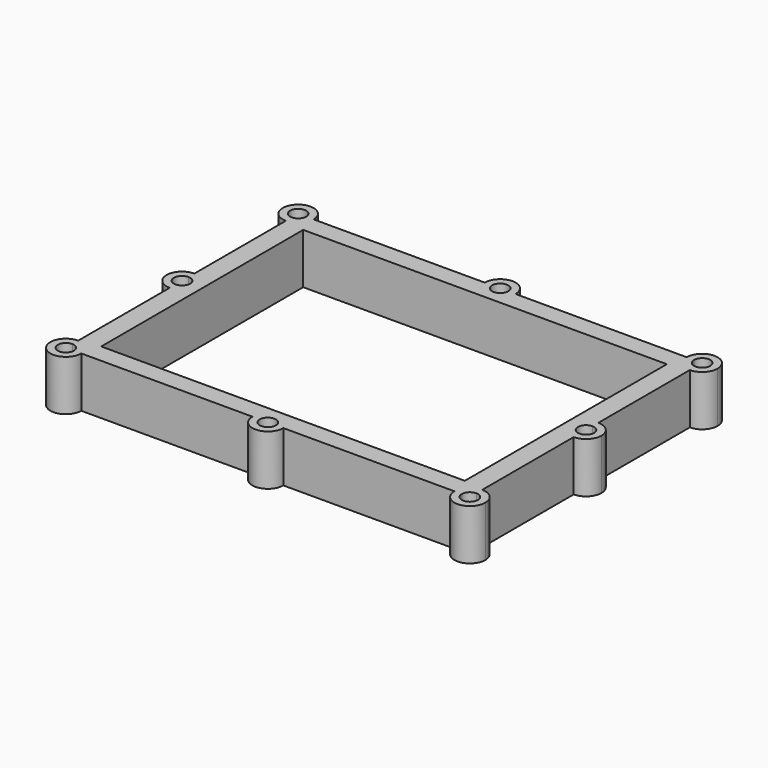
from build123d import *

# Parameters (mm, degrees)
F0_W     = 182.88
F0_H     = 127
F1_DEPTH = 25.4


with BuildPart() as f1:
    # F0 (on Top) → F1 (new body)
    with BuildSketch(Plane.XY):
        with BuildLine():
            ThreePointArc((-101.6, 68.961), (-104.4736819587, 75.8986819587), (-97.536, 73.025))
            Line((-97.536, 73.025), (-93.8328908066, 73.025))
            ThreePointArc((-93.8328908066, 73.025), (-107.0921755809, 78.5171755809), (-101.6, 65.2578908066))
            Line((-101.6, 65.2578908066), (-101.6, 68.961))
        make_face()
        with BuildLine():
            Line((-93.8328908066, 73.025), (-97.536, 73.025))
            ThreePointArc((-97.536, 73.025), (-98.7263180413, 70.1513180413), (-101.6, 68.961))
            Line((-101.6, 68.961), (-101.6, 65.2578908066))
            ThreePointArc((-101.6, 65.2578908066), (-96.1078244191, 67.5328244191), (-93.8328908066, 73.025))
        make_face()
        with BuildLine():
            Line((-7.7671091934, 73.025), (-93.8328908066, 73.025))
            ThreePointArc((-93.8328908066, 73.025), (-96.1078244191, 67.5328244191), (-101.6, 65.2578908066))
            Line((-101.6, 65.2578908066), (-101.6, 7.7671091934))
            ThreePointArc((-101.6, 7.7671091934), (-96.1078244191, 5.4921755809), (-93.8328908066, 0))
            ThreePointArc((-93.8328908066, 0), (-96.1078244191, -5.4921755809), (-101.6, -7.7671091934))
            Line((-101.6, -7.7671091934), (-101.6, -65.2578908066))
            ThreePointArc((-101.6, -65.2578908066), (-96.1078244191, -67.5328244191), (-93.8328908066, -73.025))
            Line((-93.8328908066, -73.025), (-7.7671091934, -73.025))
            ThreePointArc((-7.7671091934, -73.025), (0, -65.2578908066), (7.7671091934, -73.025))
            Line((7.7671091934, -73.025), (93.8328908066, -73.025))
            ThreePointArc((93.8328908066, -73.025), (96.1078244191, -67.5328244191), (101.6, -65.2578908066))
            Line((101.6, -65.2578908066), (101.6, -7.7671091934))
            ThreePointArc((101.6, -7.7671091934), (93.8328908066, 0), (101.6, 7.7671091934))
            Line((101.6, 7.7671091934), (101.6, 65.2578908066))
            ThreePointArc((101.6, 65.2578908066), (96.1078244191, 67.5328244191), (93.8328908066, 73.025))
            Line((93.8328908066, 73.025), (7.7671091934, 73.025))
            ThreePointArc((7.7671091934, 73.025), (0, 65.2578908066), (-7.7671091934, 73.025))
        make_face()
        Rectangle(F0_W, F0_H, mode=Mode.SUBTRACT)
        with BuildLine():
            ThreePointArc((7.7671091934, 73.025), (0, 80.7921091934), (-7.7671091934, 73.025))
            Line((-7.7671091934, 73.025), (-4.064, 73.025))
            ThreePointArc((-4.064, 73.025), (0, 77.089), (4.064, 73.025))
            Line((4.064, 73.025), (7.7671091934, 73.025))
        make_face()
        with BuildLine():
            Line((-4.064, 73.025), (-7.7671091934, 73.025))
            ThreePointArc((-7.7671091934, 73.025), (0, 65.2578908066), (7.7671091934, 73.025))
            Line((7.7671091934, 73.025), (4.064, 73.025))
            ThreePointArc((4.064, 73.025), (0, 68.961), (-4.064, 73.025))
        make_face()
        with BuildLine():
            ThreePointArc((-93.8328908066, 0), (-96.1078244191, 5.4921755809), (-101.6, 7.7671091934))
            Line((-101.6, 7.7671091934), (-101.6, 4.064))
            ThreePointArc((-101.6, 4.064), (-98.7263180413, 2.8736819587), (-97.536, 0))
            ThreePointArc((-97.536, 0), (-98.7263180413, -2.8736819587), (-101.6, -4.064))
            Line((-101.6, -4.064), (-101.6, -7.7671091934))
            ThreePointArc((-101.6, -7.7671091934), (-96.1078244191, -5.4921755809), (-93.8328908066, 0))
        make_face()
        with BuildLine():
            Line((-101.6, 4.064), (-101.6, 7.7671091934))
            ThreePointArc((-101.6, 7.7671091934), (-109.3671091934, 0), (-101.6, -7.7671091934))
            Line((-101.6, -7.7671091934), (-101.6, -4.064))
            ThreePointArc((-101.6, -4.064), (-105.664, 0), (-101.6, 4.064))
        make_face()
        with BuildLine():
            ThreePointArc((109.3671091934, 73.025), (101.6, 80.7921091934), (93.8328908066, 73.025))
            Line((93.8328908066, 73.025), (97.536, 73.025))
            ThreePointArc((97.536, 73.025), (101.6, 77.089), (105.664, 73.025))
            ThreePointArc((105.664, 73.025), (104.4736819587, 70.1513180413), (101.6, 68.961))
            Line((101.6, 68.961), (101.6, 65.2578908066))
            ThreePointArc((101.6, 65.2578908066), (107.0921755809, 67.5328244191), (109.3671091934, 73.025))
        make_face()
        with BuildLine():
            Line((97.536, 73.025), (93.8328908066, 73.025))
            ThreePointArc((93.8328908066, 73.025), (96.1078244191, 67.5328244191), (101.6, 65.2578908066))
            Line((101.6, 65.2578908066), (101.6, 68.961))
            ThreePointArc((101.6, 68.961), (98.7263180413, 70.1513180413), (97.536, 73.025))
        make_face()
        with BuildLine():
            ThreePointArc((-93.8328908066, -73.025), (-96.1078244191, -67.5328244191), (-101.6, -65.2578908066))
            Line((-101.6, -65.2578908066), (-101.6, -68.961))
            ThreePointArc((-101.6, -68.961), (-98.7263180413, -70.1513180413), (-97.536, -73.025))
            Line((-97.536, -73.025), (-93.8328908066, -73.025))
        make_face()
        with BuildLine():
            Line((-101.6, -68.961), (-101.6, -65.2578908066))
            ThreePointArc((-101.6, -65.2578908066), (-107.0921755809, -78.5171755809), (-93.8328908066, -73.025))
            Line((-93.8328908066, -73.025), (-97.536, -73.025))
            ThreePointArc((-97.536, -73.025), (-104.4736819587, -75.8986819587), (-101.6, -68.961))
        make_face()
        with BuildLine():
            ThreePointArc((109.3671091934, 0), (107.0921755809, 5.4921755809), (101.6, 7.7671091934))
            Line((101.6, 7.7671091934), (101.6, 4.064))
            ThreePointArc((101.6, 4.064), (104.4736819587, 2.8736819587), (105.664, 0))
            ThreePointArc((105.664, 0), (104.4736819587, -2.8736819587), (101.6, -4.064))
            Line((101.6, -4.064), (101.6, -7.7671091934))
            ThreePointArc((101.6, -7.7671091934), (107.0921755809, -5.4921755809), (109.3671091934, 0))
        make_face()
        with BuildLine():
            Line((101.6, 4.064), (101.6, 7.7671091934))
            ThreePointArc((101.6, 7.7671091934), (93.8328908066, 0), (101.6, -7.7671091934))
            Line((101.6, -7.7671091934), (101.6, -4.064))
            ThreePointArc((101.6, -4.064), (97.536, 0), (101.6, 4.064))
        make_face()
        with BuildLine():
            ThreePointArc((7.7671091934, -73.025), (0, -65.2578908066), (-7.7671091934, -73.025))
            Line((-7.7671091934, -73.025), (-4.064, -73.025))
            ThreePointArc((-4.064, -73.025), (0, -68.961), (4.064, -73.025))
            Line((4.064, -73.025), (7.7671091934, -73.025))
        make_face()
        with BuildLine():
            Line((-4.064, -73.025), (-7.7671091934, -73.025))
            ThreePointArc((-7.7671091934, -73.025), (0, -80.7921091934), (7.7671091934, -73.025))
            Line((7.7671091934, -73.025), (4.064, -73.025))
            ThreePointArc((4.064, -73.025), (0, -77.089), (-4.064, -73.025))
        make_face()
        with BuildLine():
            ThreePointArc((109.3671091934, -73.025), (107.0921755809, -67.5328244191), (101.6, -65.2578908066))
            Line((101.6, -65.2578908066), (101.6, -68.961))
            ThreePointArc((101.6, -68.961), (104.4736819587, -70.1513180413), (105.664, -73.025))
            ThreePointArc((105.664, -73.025), (101.6, -77.089), (97.536, -73.025))
            Line((97.536, -73.025), (93.8328908066, -73.025))
            ThreePointArc((93.8328908066, -73.025), (101.6, -80.7921091934), (109.3671091934, -73.025))
        make_face()
        with BuildLine():
            Line((101.6, -68.961), (101.6, -65.2578908066))
            ThreePointArc((101.6, -65.2578908066), (96.1078244191, -67.5328244191), (93.8328908066, -73.025))
            Line((93.8328908066, -73.025), (97.536, -73.025))
            ThreePointArc((97.536, -73.025), (98.7263180413, -70.1513180413), (101.6, -68.961))
        make_face()
    extrude(amount=F1_DEPTH)


solid = f1.part
